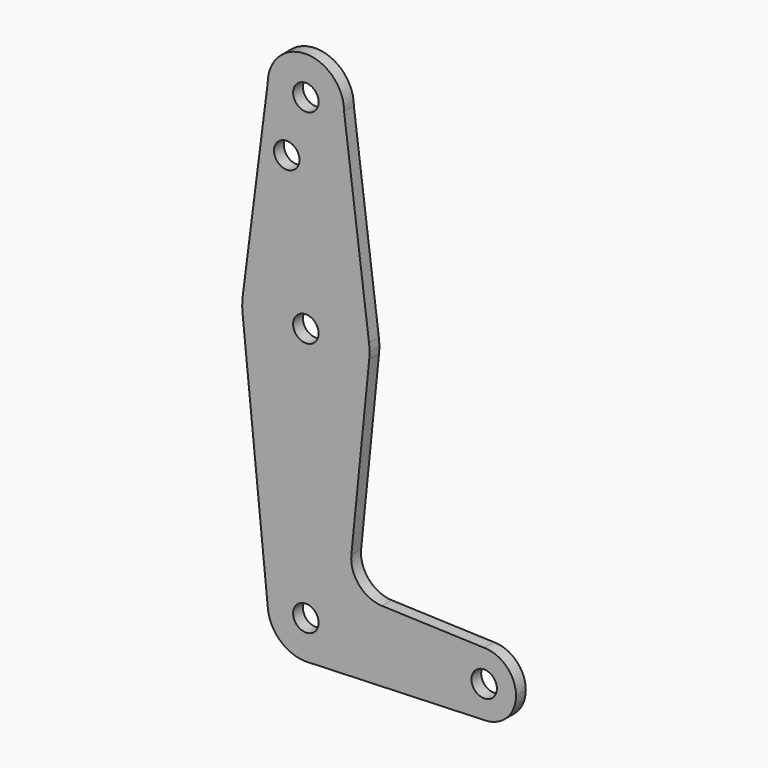
from build123d import *

# Parameters (mm, degrees)
F0_R     = 3.175
F1_DEPTH = 3.048


with BuildPart() as f1:
    # F0 (on Front) → F1 (new body)
    with BuildSketch(Plane.XZ):
        with BuildLine():
            ThreePointArc((0.341271, -9.518884), (6.854788, -6.613434), (9.525, 0))
            ThreePointArc((9.525, 0), (-0.476848, 9.513056), (-9.477255, -0.9525))
            ThreePointArc((-9.477255, -0.9525), (-6.261972, -7.177279), (0.341271, -9.518884))
        make_face()
        Circle(F0_R, mode=Mode.SUBTRACT)
        with BuildLine():
            ThreePointArc((-9.477255, -0.9525), (-0.476848, 9.513056), (9.525, 0))
            ThreePointArc((9.525, 0), (6.854788, -6.613434), (0.341271, -9.518884))
            Line((0.341271, -9.518884), (44.45, -7.9375))
            ThreePointArc((44.45, -7.9375), (36.5125, 0), (44.45, 7.9375))
            Line((44.45, 7.9375), (18.966474, 8.851134))
            ThreePointArc((18.966474, 8.851134), (13.260686, 11.569571), (11.340972, 17.59125))
            Line((11.340972, 17.59125), (15.795426, 61.9125))
            ThreePointArc((15.795426, 61.9125), (0, 47.625), (-15.795426, 61.9125))
            Line((-15.795426, 61.9125), (-9.477255, -0.9525))
        make_face()
        with BuildLine():
            ThreePointArc((-15.747457, 65.508289), (-15.873588, 63.711757), (-15.795426, 61.9125))
            ThreePointArc((-15.795426, 61.9125), (0, 47.625), (15.795426, 61.9125))
            ThreePointArc((15.795426, 61.9125), (15.855094, 62.705253), (15.875, 63.5))
            ThreePointArc((15.875, 63.5), (15.843082, 64.506168), (15.747457, 65.508289))
            ThreePointArc((15.747457, 65.508289), (0, 79.375), (-15.747457, 65.508289))
        make_face()
        with Locations((0, 63.5)):
            Circle(F0_R, mode=Mode.SUBTRACT)
        with BuildLine():
            ThreePointArc((44.45, 7.9375), (36.5125, 0), (44.45, -7.9375))
            ThreePointArc((44.45, -7.9375), (50.06266, -5.61266), (52.3875, 0))
            ThreePointArc((52.3875, 0), (50.06266, 5.61266), (44.45, 7.9375))
        make_face()
        with Locations((44.45, 0)):
            Circle(F0_R, mode=Mode.SUBTRACT)
        with BuildLine():
            Line((-9.525, 114.3), (-15.747457, 65.508289))
            ThreePointArc((-15.747457, 65.508289), (0, 79.375), (15.747457, 65.508289))
            Line((15.747457, 65.508289), (9.525, 114.3))
            ThreePointArc((9.525, 114.3), (0, 104.775), (-9.525, 114.3))
        make_face()
        with Locations((-4.7625, 100.0252)):
            Circle(F0_R, mode=Mode.SUBTRACT)
        with BuildLine():
            ThreePointArc((9.525, 114.3), (0, 123.825), (-9.525, 114.3))
            ThreePointArc((-9.525, 114.3), (0, 104.775), (9.525, 114.3))
        make_face()
        with Locations((0, 114.3)):
            Circle(F0_R, mode=Mode.SUBTRACT)
    extrude(amount=F1_DEPTH)


solid = f1.part
